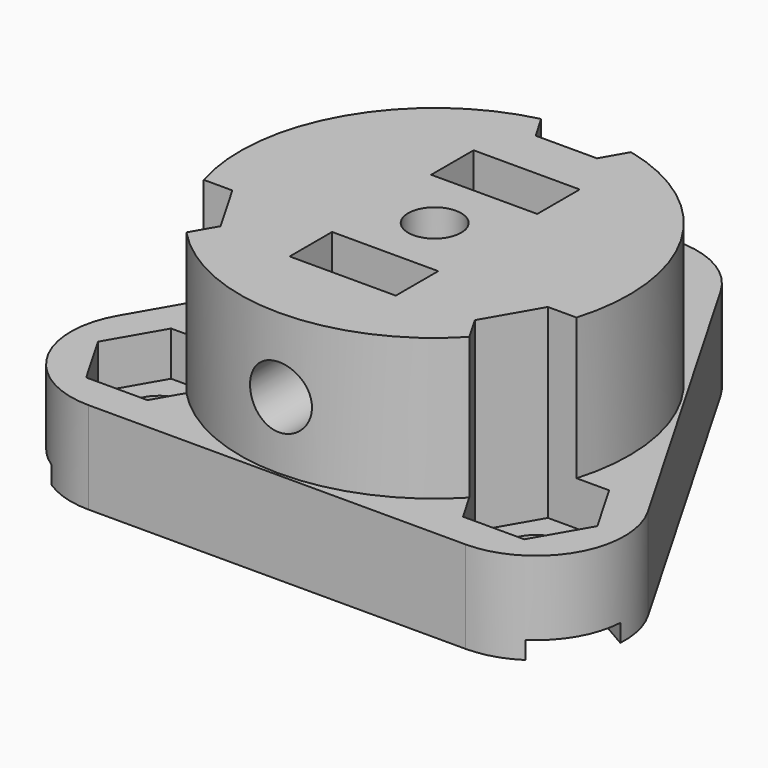
from build123d import *

# Parameters (mm, degrees)
SKETCH_R           = 1.8
PAD_DEPTH          = 5.2
SKETCH002_R        = 11
SKETCH002_R_2      = 1.5
PAD001_DEPTH       = 8
SKETCH003_R        = 7.3
POCKET001_DEPTH    = 5.2
POCKET_DEPTH       = 10.5
SKETCH005_R        = 1.75
POCKET002_DEPTH    = 28.451
SKETCH006_W        = 6
SKETCH006_H        = 3
POCKET003_DEPTH    = 8
SKETCH007_R        = 1.2
PAD002_DEPTH       = 5.2
SKETCH008_W        = 4.5
SKETCH008_H        = 15
POCKET004_DEPTH    = 1
POLARPATTERN_COUNT = 3


with BuildPart() as part:
    # Sketch → Pad (new body)
    with BuildSketch(Plane.XY):
        with BuildLine():
            Line((-14.982239, -3.65), (-4.330127, 14.8))
            ThreePointArc((4.330127, 14.8), (0, 17.3), (-4.330127, 14.8))
            Line((4.330127, 14.8), (14.982239, -3.65))
            ThreePointArc((10.652112, -11.15), (14.982239, -8.65), (14.982239, -3.65))
            Line((10.652112, -11.15), (-10.652112, -11.15))
            ThreePointArc((-14.982239, -3.65), (-14.982239, -8.65), (-10.652112, -11.15))
        make_face()
        with Locations((0, 12.3)):
            Circle(SKETCH_R, mode=Mode.SUBTRACT)
        with Locations((-10.652112, -6.15)):
            Circle(SKETCH_R, mode=Mode.SUBTRACT)
        with Locations((10.652112, -6.15)):
            Circle(SKETCH_R, mode=Mode.SUBTRACT)
    extrude(amount=PAD_DEPTH)

    # Sketch002 (on Face11 of Pad) → Pad001 (join)
    with BuildSketch(Plane.XY.offset(5.2)):
        Circle(SKETCH002_R)
        Circle(SKETCH002_R_2, mode=Mode.SUBTRACT)
    extrude(amount=PAD001_DEPTH)

    # Sketch003 (on Face4 of Pad001) → Pocket001 (cut)
    with BuildSketch(Plane(origin=(0, 0, 0), x_dir=(1, 0, 0), z_dir=(0, 0, -1))):
        Circle(SKETCH003_R)
    extrude(amount=-POCKET001_DEPTH, mode=Mode.SUBTRACT)

    # Sketch004 (on Face18 of Pocket001) → Pocket (cut)
    with BuildSketch(Plane.XY.offset(13.2)):
        Polygon((-7.188011, -6.15), (-8.920062, -3.15), (-12.384163, -3.15), (-14.116214, -6.15), (-12.384163, -9.15), (-8.920062, -9.15), align=None)
        Polygon((1.732051, 9.3), (3.464102, 12.3), (1.732051, 15.3), (-1.732051, 15.3), (-3.464102, 12.3), (-1.732051, 9.3), align=None)
        Polygon((12.384163, -9.15), (14.116214, -6.15), (12.384163, -3.15), (8.920062, -3.15), (7.188011, -6.15), (8.920062, -9.15), align=None)
    extrude(amount=-POCKET_DEPTH, mode=Mode.SUBTRACT)

    # Sketch005 (on Face6 of Pocket) → Pocket002 (cut, through all)
    with BuildSketch(Plane.XZ.offset(11.15)):
        with Locations((0, 9)):
            Circle(SKETCH005_R)
    extrude(amount=-POCKET002_DEPTH, mode=Mode.SUBTRACT)

    # Sketch006 (on Face36 of Pocket002) → Pocket003 (cut)
    with BuildSketch(Plane.XY.offset(13.2)):
        with Locations((0, 5)):
            Rectangle(SKETCH006_W, SKETCH006_H)
        with Locations((0, -5)):
            Rectangle(SKETCH006_W, SKETCH006_H)
    extrude(amount=-POCKET003_DEPTH, mode=Mode.SUBTRACT)

    # Sketch007 (on Face33 of Pocket003) → Pad002 (join)
    with BuildSketch(Plane(origin=(0, 0, 5.2), x_dir=(1, 0, 0), z_dir=(0, 0, -1))):
        with BuildLine():
            Line((-1.346291, 3.5), (1.346291, 3.5))
            ThreePointArc((1.346291, -3.5), (3.75, 0), (1.346291, 3.5))
            Line((1.346291, -3.5), (-1.346291, -3.5))
            ThreePointArc((-1.346291, 3.5), (-3.75, 0), (-1.346291, -3.5))
        make_face()
        Circle(SKETCH007_R, mode=Mode.SUBTRACT)
    extrude(amount=PAD002_DEPTH)

    # Sketch008 (on Face4 of Pad002) → Pocket004 (cut)
    with BuildSketch(Plane(origin=(0, 0, 0), x_dir=(1, 0, 0), z_dir=(0, 0, -1))):
        with Locations((0, -11.3)):
            Rectangle(SKETCH008_W, SKETCH008_H)
    pocket004 = extrude(amount=-POCKET004_DEPTH, mode=Mode.SUBTRACT)

    # PolarPattern: Pocket004 ×3 about axis
    polarpattern_axis = Axis((0, 0, 0), (0, 0, -1))
    for i in range(1, POLARPATTERN_COUNT):
        add(pocket004.rotate(polarpattern_axis, i * 360 / POLARPATTERN_COUNT), mode=Mode.SUBTRACT)


solid = part.part
